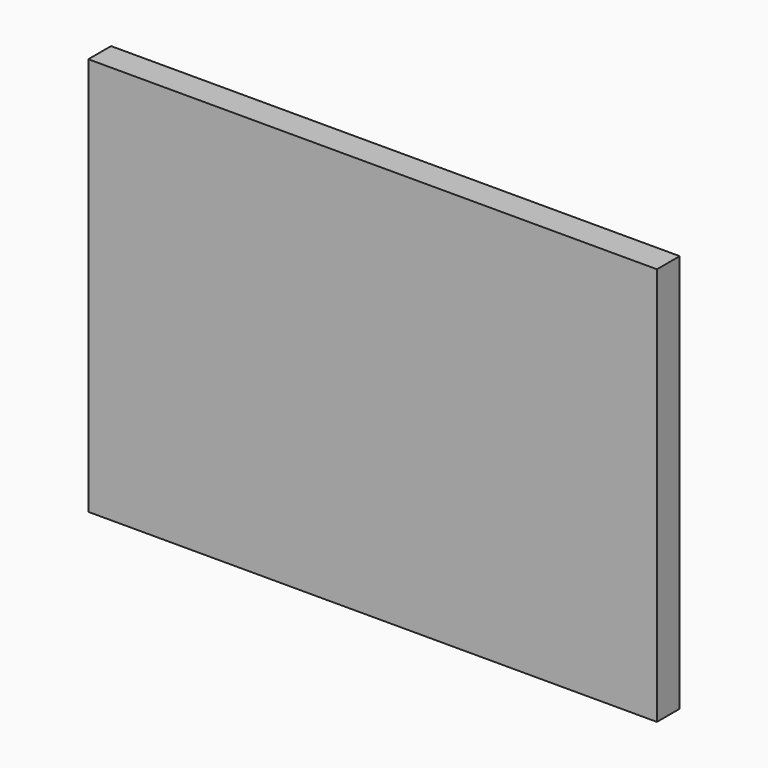
from build123d import *

# Parameters (mm, degrees)
SKETCH_W  = 50.8
SKETCH_H  = 2.54
PAD_DEPTH = 35.6


with BuildPart() as part:
    # Sketch → Pad (new body)
    with BuildSketch(Plane.XY):
        Rectangle(SKETCH_W, SKETCH_H)
    extrude(amount=PAD_DEPTH)


solid = part.part
